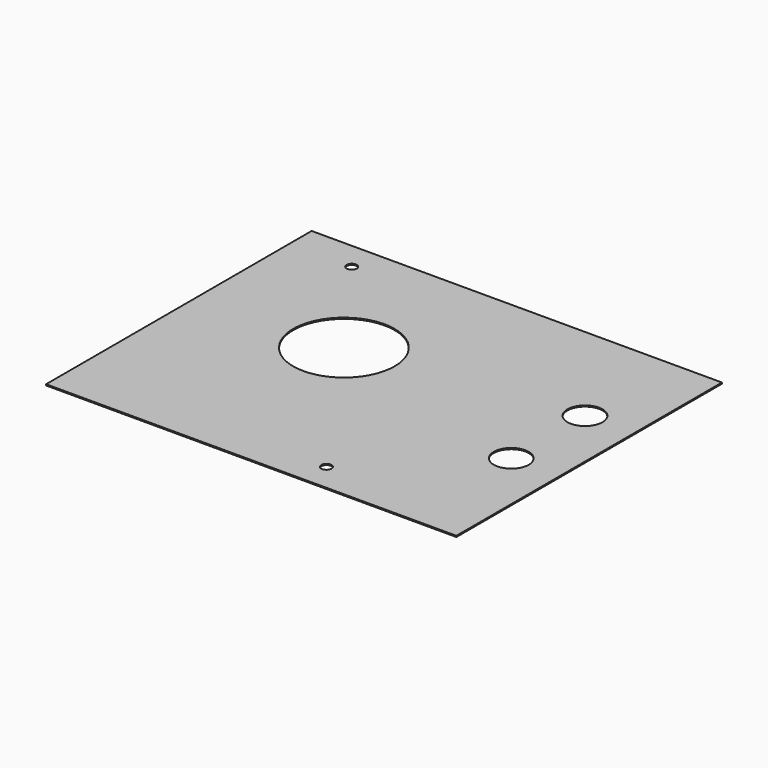
from build123d import *

# Parameters (mm, degrees)
SKETCH_W        = 178
SKETCH_H        = 144
SKETCH_R        = 22
PAD_DEPTH       = 0.5
SKETCH001_R     = 2.2
POCKET_DEPTH    = 0.501
SKETCH002_R     = 7.6
POCKET001_DEPTH = 0.501


with BuildPart() as part:
    # Sketch → Pad (new body)
    with BuildSketch(Plane.XY):
        with Locations((27, -12)):
            Rectangle(SKETCH_W, SKETCH_H)
        Circle(SKETCH_R, mode=Mode.SUBTRACT)
    extrude(amount=PAD_DEPTH)

    # Sketch001 (on Face7 of Pad) → Pocket (cut, through all)
    with BuildSketch(Plane.XY.offset(0.5)):
        with Locations((-35, 48)):
            Circle(SKETCH001_R)
        with Locations((50, -72)):
            Circle(SKETCH001_R)
    extrude(amount=-POCKET_DEPTH, mode=Mode.SUBTRACT)

    # Sketch002 (on Face5 of Pocket) → Pocket001 (cut, through all)
    with BuildSketch(Plane.XY.offset(0.5)):
        with Locations((95, 12)):
            Circle(SKETCH002_R)
        with Locations((95, -28)):
            Circle(SKETCH002_R)
    extrude(amount=-POCKET001_DEPTH, mode=Mode.SUBTRACT)


solid = part.part
